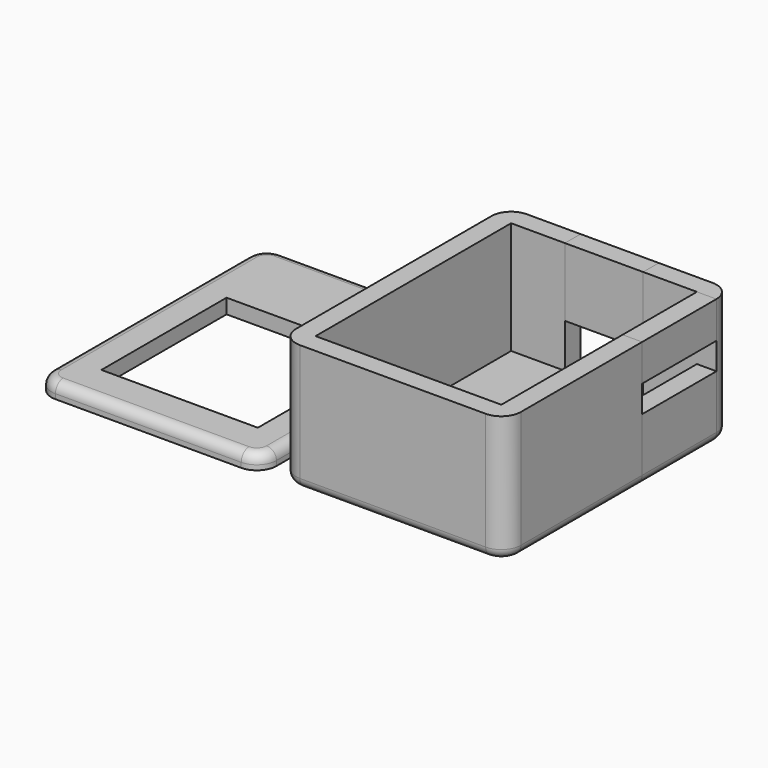
from build123d import *

# Parameters (mm, degrees)
F0_W      = 2
F0_H      = 9.5
F0_W_2    = 15
F0_H_2    = 2
F2_DEPTH  = 13
F3_W      = 8
F3_H      = 2
F4_DEPTH  = 1.5
F5_W      = 2
F5_H      = 9.5
F6_DEPTH  = 6.5
F8_START  = 6
F7_W      = 8
F7_H      = 2
F8_DEPTH  = 7
F10_START = 9.25
F9_W      = 2
F9_H      = 9.5
F10_DEPTH = 3.75
F11_R     = 1
F11_2_R   = 1
F11_3_R   = 1
F11_4_R   = 1
F1_W      = 8
F1_H      = 2
F1_W_2    = 2
F1_H_2    = 9.5
F1_W_3    = 15
F1_W_4    = 16
F1_H_3    = 16
F12_DEPTH = 1.5
F13_R     = 1


with BuildPart() as f2:
    # F0 (on Top) → F2 (new body)
    with BuildSketch(Plane.XY):
        with BuildLine():
            Line((-9.5, 12.5), (-4, 12.5))
            Line((-4, 12.5), (-4, 14.5))
            Line((-4, 14.5), (-9.5, 14.5))
            ThreePointArc((-9.5, 14.5), (-10.9142135624, 13.9142135624), (-11.5, 12.5))
            Line((-11.5, 12.5), (-9.5, 12.5))
        make_face()
        with Locations((-10.5, 7.75)):
            Rectangle(F0_W, F0_H)
        with BuildLine():
            Line((-7.5, -14.5), (-7.5, -12.5))
            Line((-7.5, -12.5), (-9.5, -12.5))
            Line((-9.5, -12.5), (-9.5, 3))
            Line((-9.5, 3), (-11.5, 3))
            Line((-11.5, 3), (-11.5, -12.5))
            ThreePointArc((-11.5, -12.5), (-10.9142135624, -13.9142135624), (-9.5, -14.5))
            Line((-9.5, -14.5), (-7.5, -14.5))
        make_face()
        with Locations((0, -13.5)):
            Rectangle(F0_W_2, F0_H_2)
        with BuildLine():
            Line((9.5, 3), (9.5, -12.5))
            Line((9.5, -12.5), (7.5, -12.5))
            Line((7.5, -12.5), (7.5, -14.5))
            Line((7.5, -14.5), (9.5, -14.5))
            ThreePointArc((9.5, -14.5), (10.9142135624, -13.9142135624), (11.5, -12.5))
            Line((11.5, -12.5), (11.5, 3))
            Line((11.5, 3), (9.5, 3))
        make_face()
    extrude(amount=F2_DEPTH)

    # F11
    f11_edges = [f2.edges().sort_by_distance(p)[0] for p in [
        (0, -14.5, 0),
    ]]
    fillet(f11_edges, radius=F11_R)


with BuildPart() as f2b:
    # F0 (on Top) → F2, piece 2 (new body)
    with BuildSketch(Plane.XY):
        with BuildLine():
            Line((4, 12.5), (9.5, 12.5))
            Line((9.5, 12.5), (11.5, 12.5))
            ThreePointArc((11.5, 12.5), (10.9142135624, 13.9142135624), (9.5, 14.5))
            Line((9.5, 14.5), (4, 14.5))
            Line((4, 14.5), (4, 12.5))
        make_face()
    extrude(amount=F2_DEPTH)

    # F11#2
    f11_2_edges = [f2b.edges().sort_by_distance(p)[0] for p in [
        (6.75, 14.5, 0),
    ]]
    fillet(f11_2_edges, radius=F11_2_R)


with BuildPart() as f4:
    # F3 (on Top) → F4 (new body)
    with BuildSketch(Plane.XY):
        Polygon((7.5, -12.5), (9.5, -12.5), (9.5, 12.5), (4, 12.5), (-4, 12.5), (-9.5, 12.5), (-9.5, 3), (-9.5, -12.5), (-7.5, -12.5), align=None)
        with Locations((0, 13.5)):
            Rectangle(F3_W, F3_H)
    extrude(amount=F4_DEPTH)

    # F11#4
    f11_4_edges = [f4.edges().sort_by_distance(p)[0] for p in [
        (0, 14.5, 0),
    ]]
    fillet(f11_4_edges, radius=F11_4_R)


with BuildPart() as f6:
    # F5 (on Top) → F6 (new body)
    with BuildSketch(Plane.XY):
        with Locations((10.5, 7.75)):
            Rectangle(F5_W, F5_H)
    extrude(amount=F6_DEPTH)

    # F11#3
    f11_3_edges = [f6.edges().sort_by_distance(p)[0] for p in [
        (11.5, 7.75, 0),
    ]]
    fillet(f11_3_edges, radius=F11_3_R)


with BuildPart() as f8:
    # F7 (on Top) → F8 (new body)
    with BuildSketch(Plane.XY.offset(F8_START)):
        with Locations((0, 13.5)):
            Rectangle(F7_W, F7_H)
    extrude(amount=F8_DEPTH)


with BuildPart() as f10:
    # F9 (on Top) → F10 (new body)
    with BuildSketch(Plane.XY.offset(F10_START)):
        with Locations((10.5, 7.75)):
            Rectangle(F9_W, F9_H)
    extrude(amount=F10_DEPTH)


with BuildPart() as f12:
    # F1 (on Top) → F12 (new body)
    with BuildSketch(Plane.XY):
        with Locations((-25, 13.5)):
            Rectangle(F1_W, F1_H)
        with BuildLine():
            Line((-34.5, 12.5), (-29, 12.5))
            Line((-29, 12.5), (-29, 14.5))
            Line((-29, 14.5), (-34.5, 14.5))
            ThreePointArc((-34.5, 14.5), (-35.9142135624, 13.9142135624), (-36.5, 12.5))
            Line((-36.5, 12.5), (-34.5, 12.5))
        make_face()
        with Locations((-35.5, 7.75)):
            Rectangle(F1_W_2, F1_H_2)
        with BuildLine():
            Line((-32.5, -14.5), (-32.5, -12.5))
            Line((-32.5, -12.5), (-34.5, -12.5))
            Line((-34.5, -12.5), (-34.5, 3))
            Line((-34.5, 3), (-36.5, 3))
            Line((-36.5, 3), (-36.5, -12.5))
            ThreePointArc((-36.5, -12.5), (-35.9142135624, -13.9142135624), (-34.5, -14.5))
            Line((-34.5, -14.5), (-32.5, -14.5))
        make_face()
        with Locations((-25, -13.5)):
            Rectangle(F1_W_3, F1_H)
        with BuildLine():
            Line((-15.5, 3), (-15.5, -12.5))
            Line((-15.5, -12.5), (-17.5, -12.5))
            Line((-17.5, -12.5), (-17.5, -14.5))
            Line((-17.5, -14.5), (-15.5, -14.5))
            ThreePointArc((-15.5, -14.5), (-14.0857864376, -13.9142135624), (-13.5, -12.5))
            Line((-13.5, -12.5), (-13.5, 3))
            Line((-13.5, 3), (-15.5, 3))
        make_face()
        with Locations((-14.5, 7.75)):
            Rectangle(F1_W_2, F1_H_2)
        with BuildLine():
            Line((-21, 12.5), (-15.5, 12.5))
            Line((-15.5, 12.5), (-13.5, 12.5))
            ThreePointArc((-13.5, 12.5), (-14.0857864376, 13.9142135624), (-15.5, 14.5))
            Line((-15.5, 14.5), (-21, 14.5))
            Line((-21, 14.5), (-21, 12.5))
        make_face()
        Polygon((-17.5, -12.5), (-15.5, -12.5), (-15.5, 3), (-15.5, 12.5), (-21, 12.5), (-29, 12.5), (-34.5, 12.5), (-34.5, 3), (-34.5, -12.5), (-32.5, -12.5), align=None)
        with Locations((-25, -2.5)):
            Rectangle(F1_W_4, F1_H_3, mode=Mode.SUBTRACT)
    extrude(amount=F12_DEPTH)

    # F13
    f13_edges = [f12.edges().sort_by_distance(p)[0] for p in [
        (-36.5, 0, 1.5),
    ]]
    fillet(f13_edges, radius=F13_R)


solid = Compound([f2.part, f2b.part, f4.part, f6.part, f8.part, f10.part, f12.part])
